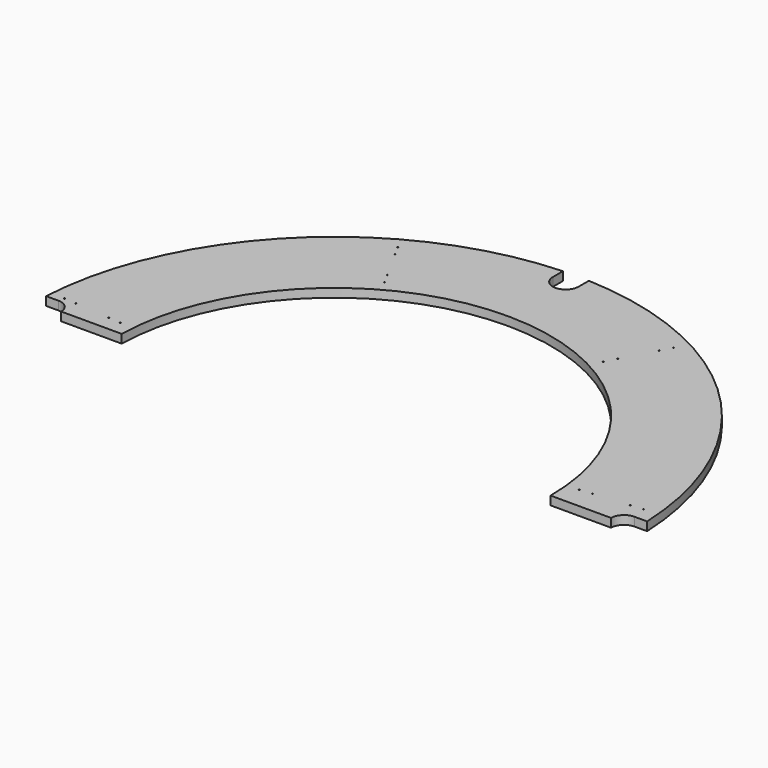
from build123d import *

# Parameters (mm, degrees)
F0_R     = 1.5875
F1_DEPTH = 25.4


with BuildPart() as f1:
    # F0 (on Top) → F1 (new body)
    with BuildSketch(Plane.XY):
        with BuildLine():
            Line((851.972256, 38.1), (889.255447, 38.1))
            ThreePointArc((889.255447, 38.1), (629.31059, 628.997177), (38.1, 888.228427))
            Line((38.1, 888.228427), (38.1, 850.899208))
            ThreePointArc((38.1, 850.899208), (0, 812.799208), (-38.1, 850.899208))
            ThreePointArc((-38.1, 850.899208), (-38.099737, 851.040896), (-38.098946, 851.182583))
            Line((-38.098946, 851.182583), (-37.961496, 888.142533))
            ThreePointArc((-37.961496, 888.142533), (-623.366514, 632.76937), (-886.475122, 50.8))
            Line((-886.475122, 50.8), (-849.827744, 50.8))
            ThreePointArc((-849.827744, 50.8), (-822.886976, 39.640768), (-811.727744, 12.7))
            Line((-811.727744, 12.7), (-633.800729, 12.7))
            ThreePointArc((-633.800729, 12.7), (7.422632, 634.968129), (636.072256, -0.000117))
            Line((636.072256, -0.000117), (813.872256, -0.000117))
            ThreePointArc((813.872256, -0.000117), (825.031446, 26.940727), (851.972256, 38.1))
        make_face()
        with Locations((-670.909876, 53.913163)):
            Circle(F0_R, mode=Mode.SUBTRACT)
        with Locations((-846.062467, 67.988124)):
            Circle(F0_R, mode=Mode.SUBTRACT)
        with Locations((-810.211633, 65.107212)):
            Circle(F0_R, mode=Mode.SUBTRACT)
        with Locations((-706.76071, 56.794074)):
            Circle(F0_R, mode=Mode.SUBTRACT)
        with Locations((670.07917, 63.408177)):
            Circle(F0_R, mode=Mode.SUBTRACT)
        with Locations((705.885614, 66.796465)):
            Circle(F0_R, mode=Mode.SUBTRACT)
        with Locations((809.208447, 76.573686)):
            Circle(F0_R, mode=Mode.SUBTRACT)
        with Locations((845.014891, 79.961974)):
            Circle(F0_R, mode=Mode.SUBTRACT)
        with Locations((-323.62721, 590.162791)):
            Circle(F0_R, mode=Mode.SUBTRACT)
        with Locations((-340.920599, 621.698812)):
            Circle(F0_R, mode=Mode.SUBTRACT)
        with Locations((-390.822284, 712.698942)):
            Circle(F0_R, mode=Mode.SUBTRACT)
        with Locations((-408.115673, 744.234963)):
            Circle(F0_R, mode=Mode.SUBTRACT)
        with Locations((315.237761, 594.686341)):
            Circle(F0_R, mode=Mode.SUBTRACT)
        with Locations((332.08285, 626.464084)):
            Circle(F0_R, mode=Mode.SUBTRACT)
        with Locations((380.690925, 718.161722)):
            Circle(F0_R, mode=Mode.SUBTRACT)
        with Locations((397.536014, 749.939465)):
            Circle(F0_R, mode=Mode.SUBTRACT)
    extrude(amount=F1_DEPTH)


solid = f1.part
